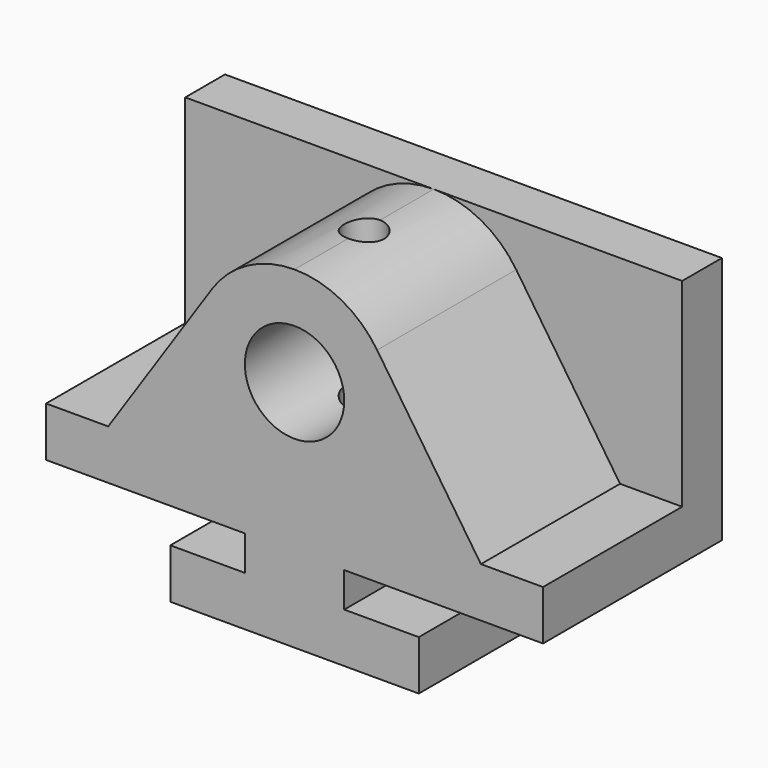
from build123d import *

# Parameters (mm, degrees)
F0_R     = 12.7
F1_DEPTH = 44.45
F2_DEPTH = 12.7
F3_R     = 5.08
F4_DEPTH = 85.091


with BuildPart() as f1:
    # F0 (on Front) → F1 (new body)
    with BuildSketch(Plane.XZ):
        with BuildLine():
            Line((-31.75, 0), (0, 0))
            Line((0, 0), (31.75, 0))
            Line((31.75, 0), (31.75, 12.7))
            Line((31.75, 12.7), (12.7, 12.7))
            Line((12.7, 12.7), (12.7, 21.59))
            Line((12.7, 21.59), (63.5, 21.59))
            Line((63.5, 21.59), (63.5, 34.29))
            Line((63.5, 34.29), (47.625, 34.29))
            Line((47.625, 34.29), (21.093426, 73.840173))
            ThreePointArc((21.093426, 73.840173), (11.952941, 82.101765), (0, 85.09))
            ThreePointArc((0, 85.09), (-11.952941, 82.101765), (-21.093426, 73.840173))
            Line((-21.093426, 73.840173), (-47.625, 34.29))
            Line((-47.625, 34.29), (-63.5, 34.29))
            Line((-63.5, 34.29), (-63.5, 21.59))
            Line((-63.5, 21.59), (-12.7, 21.59))
            Line((-12.7, 21.59), (-12.7, 12.7))
            Line((-12.7, 12.7), (-31.75, 12.7))
            Line((-31.75, 12.7), (-31.75, 0))
        make_face()
        with Locations((0, 59.69)):
            Circle(F0_R, mode=Mode.SUBTRACT)
    extrude(amount=F1_DEPTH)

    # F0 (on Front) → F2 (join)
    with BuildSketch(Plane.XZ):
        with BuildLine():
            Line((-63.5, 85.09), (-63.5, 34.29))
            Line((-63.5, 34.29), (-47.625, 34.29))
            Line((-47.625, 34.29), (-21.093426, 73.840173))
            ThreePointArc((-21.093426, 73.840173), (-11.952941, 82.101765), (0, 85.09))
            Line((0, 85.09), (-63.5, 85.09))
        make_face()
        with BuildLine():
            Line((47.625, 34.29), (63.5, 34.29))
            Line((63.5, 34.29), (63.5, 85.09))
            Line((63.5, 85.09), (0, 85.09))
            ThreePointArc((0, 85.09), (11.952941, 82.101765), (21.093426, 73.840173))
            Line((21.093426, 73.840173), (47.625, 34.29))
        make_face()
        with BuildLine():
            Line((-31.75, 0), (0, 0))
            Line((0, 0), (31.75, 0))
            Line((31.75, 0), (31.75, 12.7))
            Line((31.75, 12.7), (12.7, 12.7))
            Line((12.7, 12.7), (12.7, 21.59))
            Line((12.7, 21.59), (63.5, 21.59))
            Line((63.5, 21.59), (63.5, 34.29))
            Line((63.5, 34.29), (47.625, 34.29))
            Line((47.625, 34.29), (21.093426, 73.840173))
            ThreePointArc((21.093426, 73.840173), (11.952941, 82.101765), (0, 85.09))
            ThreePointArc((0, 85.09), (-11.952941, 82.101765), (-21.093426, 73.840173))
            Line((-21.093426, 73.840173), (-47.625, 34.29))
            Line((-47.625, 34.29), (-63.5, 34.29))
            Line((-63.5, 34.29), (-63.5, 21.59))
            Line((-63.5, 21.59), (-12.7, 21.59))
            Line((-12.7, 21.59), (-12.7, 12.7))
            Line((-12.7, 12.7), (-31.75, 12.7))
            Line((-31.75, 12.7), (-31.75, 0))
        make_face()
        with Locations((0, 59.69)):
            Circle(F0_R, mode=Mode.SUBTRACT)
    extrude(amount=-F2_DEPTH)

    # F3 (on face) → F4 (cut, through all)
    with BuildSketch(Plane.XY.offset(85.09)):
        with Locations((0, -22.225)):
            Circle(F3_R)
    extrude(amount=-F4_DEPTH, mode=Mode.SUBTRACT)


solid = f1.part
